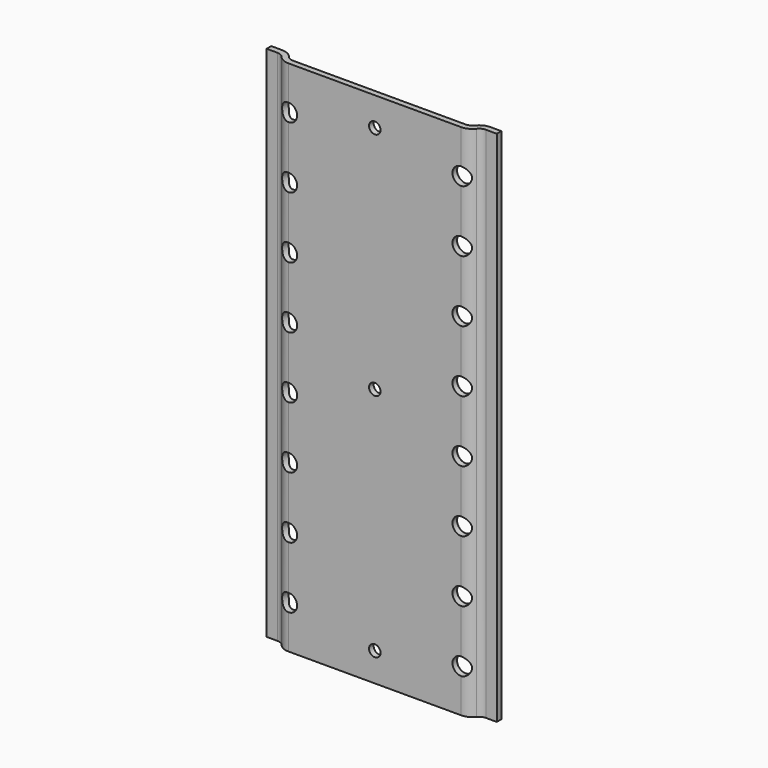
from build123d import *

# Parameters (mm, degrees)
PAD_DEPTH                          = 180
SKETCH001_R                        = 2
POCKET_DEPTH                       = 2
LINEARPATTERN_COUNT                = 3
LINEARPATTERN_PITCH                = 80
SKETCH002_R                        = 3
POCKET001_DEPTH                    = 5
SKETCH002_LINEARPATTERN001_2_R     = 3
POCKET001_LINEARPATTERN001_2_DEPTH = 5
SKETCH002_LINEARPATTERN001_3_R     = 3
POCKET001_LINEARPATTERN001_3_DEPTH = 5
SKETCH002_LINEARPATTERN001_4_R     = 3
POCKET001_LINEARPATTERN001_4_DEPTH = 5
SKETCH002_LINEARPATTERN001_5_R     = 3
POCKET001_LINEARPATTERN001_5_DEPTH = 5
SKETCH002_LINEARPATTERN001_6_R     = 3
POCKET001_LINEARPATTERN001_6_DEPTH = 5
SKETCH002_LINEARPATTERN001_7_R     = 3
POCKET001_LINEARPATTERN001_7_DEPTH = 5
SKETCH002_LINEARPATTERN001_8_R     = 3
POCKET001_LINEARPATTERN001_8_DEPTH = 5


with BuildPart() as part:
    # Sketch → Pad (new body)
    with BuildSketch(Plane.XY):
        with BuildLine():
            Line((-30, 0), (0, 0))
            Line((0, 2), (0, 0))
            Line((-30, 2), (0, 2))
            ThreePointArc((-32.341874, 3.125), (-31.299038, 2.295837), (-30, 2))
            ThreePointArc((-32.341874, 3.125), (-34.079934, 4.506939), (-36.244998, 5))
            Line((-36.244998, 5), (-40, 5))
            Line((-40, 5), (-40, 3))
            Line((-36.244998, 3), (-40, 3))
            ThreePointArc((-33.903124, 1.875), (-34.94596, 2.704163), (-36.244998, 3))
            ThreePointArc((-33.903124, 1.875), (-32.165064, 0.493061), (-30, 0))
        make_face()
    pad = extrude(amount=PAD_DEPTH)

    # Mirrored: Pad across Sketch V_Axis
    add(pad.mirror(Plane(origin=(0, 0, 0), x_dir=(0, 0, 1), z_dir=(1, 0, 0))))

    # Sketch001 (on Face3 of Mirrored) → Pocket (cut)
    with BuildSketch(Plane.XZ):
        with Locations((0, 10)):
            Circle(SKETCH001_R)
    pocket = extrude(amount=-POCKET_DEPTH, mode=Mode.SUBTRACT)

    # LinearPattern: Pocket ×3
    with Locations(*[(0, 0, i * LINEARPATTERN_PITCH) for i in range(1, LINEARPATTERN_COUNT)]):
        add(pocket, mode=Mode.SUBTRACT)

    # Sketch002 (on Face7 of LinearPattern) → Pocket001 (cut)
    with BuildSketch(Plane.XZ):
        with Locations((-30, 15)):
            Circle(SKETCH002_R)
    pocket001 = extrude(amount=-POCKET001_DEPTH, mode=Mode.SUBTRACT)

    # Sketch002 LinearPattern001 2 → Pocket001 LinearPattern001 2 (cut)
    with BuildSketch(Plane(origin=(0, 0, 21.428571), x_dir=(1, 0, 0), z_dir=(0, -1, 0))):
        with Locations((-30, 15)):
            Circle(SKETCH002_LINEARPATTERN001_2_R)
    pocket001_linearpattern001_2 = extrude(amount=-POCKET001_LINEARPATTERN001_2_DEPTH, mode=Mode.SUBTRACT)

    # Sketch002 LinearPattern001 3 → Pocket001 LinearPattern001 3 (cut)
    with BuildSketch(Plane(origin=(0, 0, 42.857143), x_dir=(1, 0, 0), z_dir=(0, -1, 0))):
        with Locations((-30, 15)):
            Circle(SKETCH002_LINEARPATTERN001_3_R)
    pocket001_linearpattern001_3 = extrude(amount=-POCKET001_LINEARPATTERN001_3_DEPTH, mode=Mode.SUBTRACT)

    # Sketch002 LinearPattern001 4 → Pocket001 LinearPattern001 4 (cut)
    with BuildSketch(Plane(origin=(0, 0, 64.285714), x_dir=(1, 0, 0), z_dir=(0, -1, 0))):
        with Locations((-30, 15)):
            Circle(SKETCH002_LINEARPATTERN001_4_R)
    pocket001_linearpattern001_4 = extrude(amount=-POCKET001_LINEARPATTERN001_4_DEPTH, mode=Mode.SUBTRACT)

    # Sketch002 LinearPattern001 5 → Pocket001 LinearPattern001 5 (cut)
    with BuildSketch(Plane(origin=(0, 0, 85.714286), x_dir=(1, 0, 0), z_dir=(0, -1, 0))):
        with Locations((-30, 15)):
            Circle(SKETCH002_LINEARPATTERN001_5_R)
    pocket001_linearpattern001_5 = extrude(amount=-POCKET001_LINEARPATTERN001_5_DEPTH, mode=Mode.SUBTRACT)

    # Sketch002 LinearPattern001 6 → Pocket001 LinearPattern001 6 (cut)
    with BuildSketch(Plane(origin=(0, 0, 107.142857), x_dir=(1, 0, 0), z_dir=(0, -1, 0))):
        with Locations((-30, 15)):
            Circle(SKETCH002_LINEARPATTERN001_6_R)
    pocket001_linearpattern001_6 = extrude(amount=-POCKET001_LINEARPATTERN001_6_DEPTH, mode=Mode.SUBTRACT)

    # Sketch002 LinearPattern001 7 → Pocket001 LinearPattern001 7 (cut)
    with BuildSketch(Plane(origin=(0, 0, 128.571429), x_dir=(1, 0, 0), z_dir=(0, -1, 0))):
        with Locations((-30, 15)):
            Circle(SKETCH002_LINEARPATTERN001_7_R)
    pocket001_linearpattern001_7 = extrude(amount=-POCKET001_LINEARPATTERN001_7_DEPTH, mode=Mode.SUBTRACT)

    # Sketch002 LinearPattern001 8 → Pocket001 LinearPattern001 8 (cut)
    with BuildSketch(Plane(origin=(0, 0, 150), x_dir=(1, 0, 0), z_dir=(0, -1, 0))):
        with Locations((-30, 15)):
            Circle(SKETCH002_LINEARPATTERN001_8_R)
    pocket001_linearpattern001_8 = extrude(amount=-POCKET001_LINEARPATTERN001_8_DEPTH, mode=Mode.SUBTRACT)

    # Mirrored001: Pocket001, Pocket001 LinearPattern001 2, Pocket001 LinearPattern001 3, Pocket001 LinearPattern001 4, Pocket001 LinearPattern001 5, Pocket001 LinearPattern001 6, Pocket001 LinearPattern001 7, Pocket001 LinearPattern001 8 across Sketch002 V_Axis
    add(pocket001.mirror(Plane(origin=(0, 0, 0), x_dir=(0, -1, 0), z_dir=(1, 0, 0))), mode=Mode.SUBTRACT)
    add(pocket001_linearpattern001_2.mirror(Plane(origin=(0, 0, 0), x_dir=(0, -1, 0), z_dir=(1, 0, 0))), mode=Mode.SUBTRACT)
    add(pocket001_linearpattern001_3.mirror(Plane(origin=(0, 0, 0), x_dir=(0, -1, 0), z_dir=(1, 0, 0))), mode=Mode.SUBTRACT)
    add(pocket001_linearpattern001_4.mirror(Plane(origin=(0, 0, 0), x_dir=(0, -1, 0), z_dir=(1, 0, 0))), mode=Mode.SUBTRACT)
    add(pocket001_linearpattern001_5.mirror(Plane(origin=(0, 0, 0), x_dir=(0, -1, 0), z_dir=(1, 0, 0))), mode=Mode.SUBTRACT)
    add(pocket001_linearpattern001_6.mirror(Plane(origin=(0, 0, 0), x_dir=(0, -1, 0), z_dir=(1, 0, 0))), mode=Mode.SUBTRACT)
    add(pocket001_linearpattern001_7.mirror(Plane(origin=(0, 0, 0), x_dir=(0, -1, 0), z_dir=(1, 0, 0))), mode=Mode.SUBTRACT)
    add(pocket001_linearpattern001_8.mirror(Plane(origin=(0, 0, 0), x_dir=(0, -1, 0), z_dir=(1, 0, 0))), mode=Mode.SUBTRACT)


solid = part.part
